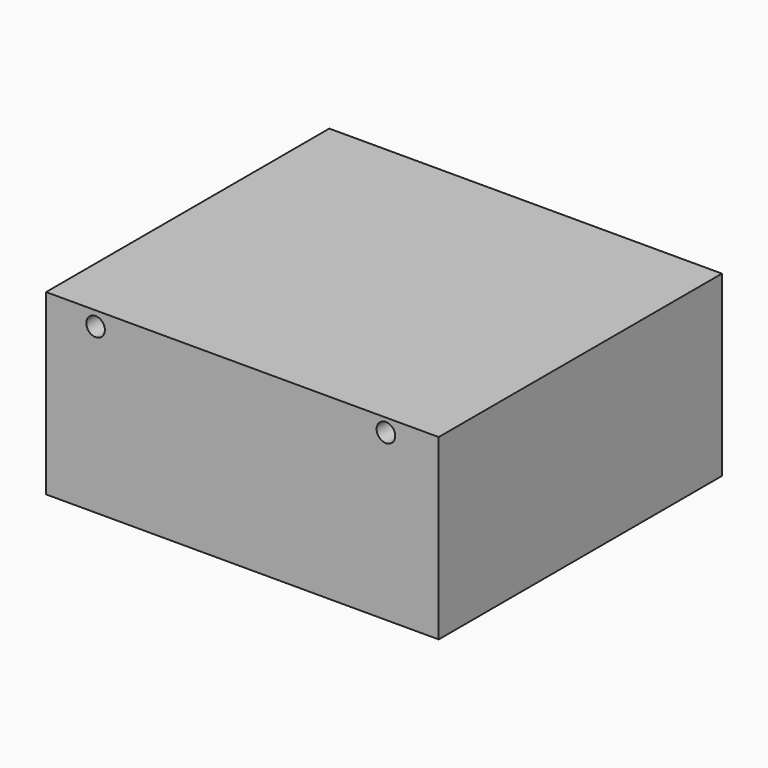
from build123d import *

# Parameters (mm, degrees)
F0_R     = 2.6797
F1_DEPTH = 3.175
F2_DEPTH = 101.6


with BuildPart() as f1:
    # F0 (on Front) → F1 (new body)
    with BuildSketch(Plane.XZ):
        Polygon((-42.367362, 20.041954), (-56.496214, 20.041954), (-56.496214, -31.088697), (56.180589, -31.088697), (56.180589, 20.041954), align=None)
        with BuildLine():
            ThreePointArc((-39.614944, 15.938879), (-44.160357, 14.019069), (-42.367362, 18.615984))
            ThreePointArc((-42.367362, 18.615984), (-40.425799, 17.85869), (-39.614944, 15.938879))
        make_face(mode=Mode.SUBTRACT)
        with Locations((41.030772, 16.254498)):
            Circle(F0_R, mode=Mode.SUBTRACT)
        Polygon((-42.367362, 20.041954), (-56.496214, 20.041954), (-56.496214, -31.088697), (56.180589, -31.088697), (56.180589, 20.041954), align=None)
        with BuildLine():
            ThreePointArc((-39.614944, 15.938879), (-44.160357, 14.019069), (-42.367362, 18.615984))
            ThreePointArc((-42.367362, 18.615984), (-40.425799, 17.85869), (-39.614944, 15.938879))
        make_face(mode=Mode.SUBTRACT)
        with Locations((41.030772, 16.254498)):
            Circle(F0_R, mode=Mode.SUBTRACT)
    extrude(amount=F1_DEPTH)

    # F0 (on Front) → F2 (join)
    with BuildSketch(Plane.XZ):
        Polygon((-42.367362, 20.041954), (-56.496214, 20.041954), (-56.496214, -31.088697), (56.180589, -31.088697), (56.180589, 20.041954), align=None)
        with BuildLine():
            ThreePointArc((-39.614944, 15.938879), (-44.160357, 14.019069), (-42.367362, 18.615984))
            ThreePointArc((-42.367362, 18.615984), (-40.425799, 17.85869), (-39.614944, 15.938879))
        make_face(mode=Mode.SUBTRACT)
        with Locations((41.030772, 16.254498)):
            Circle(F0_R, mode=Mode.SUBTRACT)
    extrude(amount=F2_DEPTH)


solid = f1.part
